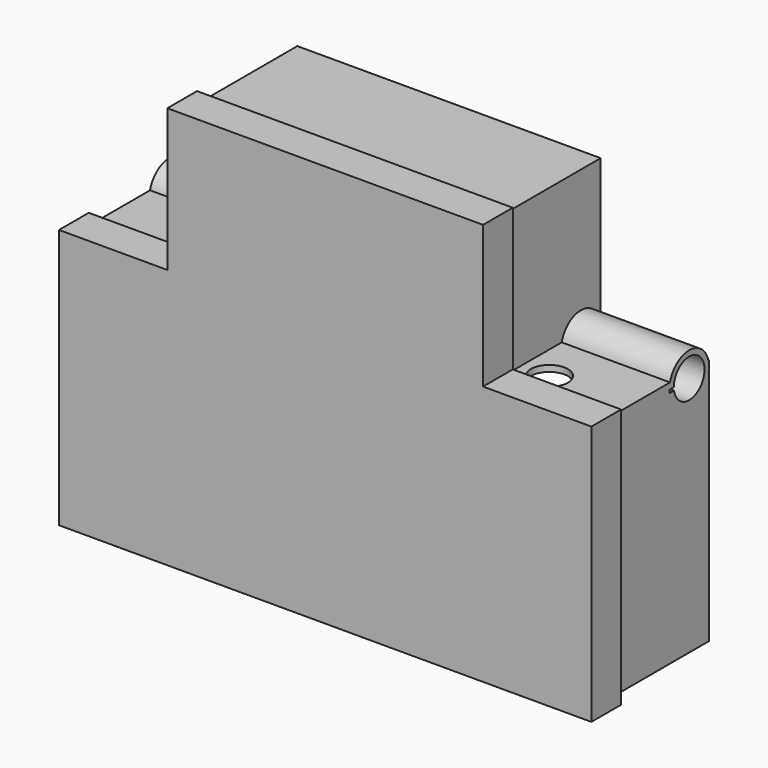
from build123d import *

# Parameters (mm, degrees)
CYLINDER004_R           = 1.25
CYLINDER004_DEPTH       = 50
CYLINDER004_PITCH_ANGLE = 90
CYLINDER009_R           = 1.25
CYLINDER009_DEPTH       = 86
CYLINDER009_PITCH_ANGLE = 90
CYLINDER010_R           = 3
CYLINDER010_DEPTH       = 10
CYLINDER005_R           = 3
CYLINDER005_DEPTH       = 10
BOX002_W                = 84
BOX002_H                = 3
BOX002_DEPTH            = 0.5
CYLINDER002_R           = 3.1
CYLINDER002_DEPTH       = 84
CYLINDER002_PITCH_ANGLE = 90
CYLINDER007_R           = 17
CYLINDER007_DEPTH       = 6
BOX005_W                = 71
BOX005_H                = 24
BOX005_DEPTH            = 28
BOX004_W                = 82
BOX004_H                = 24
BOX004_DEPTH            = 38
BOX003_W                = 84
BOX003_H                = 24
BOX003_DEPTH            = 40
CYLINDER003_R           = 4
CYLINDER003_DEPTH       = 84
CYLINDER003_PITCH_ANGLE = 90
CYLINDER008_R           = 2
CYLINDER008_DEPTH       = 8
CYLINDER008_ROLL_ANGLE  = 90
CYLINDER006_R           = 2
CYLINDER006_DEPTH       = 8
CYLINDER006_ROLL_ANGLE  = 90
CYLINDER001_R           = 8.5
CYLINDER001_DEPTH       = 20
CYLINDER001_ROLL_ANGLE  = 90
CYLINDER_R              = 8.5
CYLINDER_DEPTH          = 20
CYLINDER_ROLL_ANGLE     = 90
BOX001_W                = 47
BOX001_H                = 22
BOX001_DEPTH            = 23
BOX_W                   = 49
BOX_H                   = 24
BOX_DEPTH               = 24
BOX009_W                = 49.5
BOX009_H                = 24
BOX009_DEPTH            = 24.5
BOX008_W                = 84.5
BOX008_H                = 24
BOX008_DEPTH            = 40.5
BOX007_W                = 51
BOX007_H                = 6
BOX007_DEPTH            = 26
BOX006_W                = 86
BOX006_H                = 6
BOX006_DEPTH            = 42


with BuildPart() as obj1:
    # Cylinder004 → Cylinder004 (new body)
    with BuildSketch(Plane.XY):
        Circle(CYLINDER004_R)
    extrude(amount=CYLINDER004_DEPTH)


with BuildPart() as obj1_1:
    # Cylinder004 pitch: moved
    add(obj1.part.rotate(Axis((0, 0, 0), (0, 1, 0)), CYLINDER004_PITCH_ANGLE))


with BuildPart() as obj1_2:
    # Cylinder004 placement: moved
    add(obj1_1.part.moved(Location((-25, -12, 0))))


with BuildPart() as obj2:
    # Cylinder009 → Cylinder009 (new body)
    with BuildSketch(Plane.XY):
        Circle(CYLINDER009_R)
    extrude(amount=CYLINDER009_DEPTH)


with BuildPart() as obj2_1:
    # Cylinder009 pitch: moved
    add(obj2.part.rotate(Axis((0, 0, 0), (0, 1, 0)), CYLINDER009_PITCH_ANGLE))


with BuildPart() as obj2_2:
    # Cylinder009 placement: moved
    add(obj2_1.part.moved(Location((-43, -12, -31))))


with BuildPart() as obj3:
    # Cylinder010 → Cylinder010 (new body)
    with BuildSketch(Plane(origin=(-29, -7, -17), x_dir=(1, 0, 0), z_dir=(0, 0, 1))):
        Circle(CYLINDER010_R)
    extrude(amount=CYLINDER010_DEPTH)


with BuildPart() as fusion002:
    # Cylinder005 → Cylinder005 (new body)
    with BuildSketch(Plane(origin=(29, -7, -17), x_dir=(1, 0, 0), z_dir=(0, 0, 1))):
        Circle(CYLINDER005_R)
    extrude(amount=CYLINDER005_DEPTH)

    # Fusion002: union obj1, obj2, obj3
    add(obj1_2.part)
    add(obj2_2.part)
    add(obj3.part)


with BuildPart() as obj4:
    # Box002 → Box002 (new body)
    with BuildSketch(Plane(origin=(-42, 1, -12.5), x_dir=(1, 0, 0), z_dir=(0, 0, 1))):
        with Locations((42, 1.5)):
            Rectangle(BOX002_W, BOX002_H)
    extrude(amount=BOX002_DEPTH)


with BuildPart() as obj5:
    # Cylinder002 → Cylinder002 (new body)
    with BuildSketch(Plane.XY):
        Circle(CYLINDER002_R)
    extrude(amount=CYLINDER002_DEPTH)


with BuildPart() as obj5_1:
    # Cylinder002 pitch: moved
    add(obj5.part.rotate(Axis((0, 0, 0), (0, 1, 0)), CYLINDER002_PITCH_ANGLE))


with BuildPart() as obj5_2:
    # Cylinder002 placement: moved
    add(obj5_1.part.moved(Location((-42, 5, -12))))


with BuildPart() as obj6:
    # Cylinder007 → Cylinder007 (new body)
    with BuildSketch(Plane(origin=(0, -19, -16), x_dir=(1, 0, 0), z_dir=(0, 0, 1))):
        Circle(CYLINDER007_R)
    extrude(amount=CYLINDER007_DEPTH)


with BuildPart() as obj7:
    # Box005 → Box005 (new body)
    with BuildSketch(Plane(origin=(-35.5, -14, -45.5), x_dir=(1, 0, 0), z_dir=(0, 0, 1))):
        with Locations((35.5, 12)):
            Rectangle(BOX005_W, BOX005_H)
    extrude(amount=BOX005_DEPTH)


with BuildPart() as obj8:
    # Box004 → Box004 (new body)
    with BuildSketch(Plane(origin=(-41, -17, -50), x_dir=(1, 0, 0), z_dir=(0, 0, 1))):
        with Locations((41, 12)):
            Rectangle(BOX004_W, BOX004_H)
    extrude(amount=BOX004_DEPTH)


with BuildPart() as base_lcd:
    # Box003 → Box003 (new body)
    with BuildSketch(Plane(origin=(-42, -15, -51), x_dir=(1, 0, 0), z_dir=(0, 0, 1))):
        with Locations((42, 12)):
            Rectangle(BOX003_W, BOX003_H)
    extrude(amount=BOX003_DEPTH)

    # Cut002: cut obj8
    add(obj8.part, mode=Mode.SUBTRACT)

    # Cut003: cut obj7
    add(obj7.part, mode=Mode.SUBTRACT)


with BuildPart() as eje_central:
    # Cylinder003 → Cylinder003 (new body)
    with BuildSketch(Plane.XY):
        Circle(CYLINDER003_R)
    extrude(amount=CYLINDER003_DEPTH)


with BuildPart() as eje_central_1:
    # Cylinder003 pitch: moved
    add(eje_central.part.rotate(Axis((0, 0, 0), (0, 1, 0)), CYLINDER003_PITCH_ANGLE))


with BuildPart() as eje_central_2:
    # Cylinder003 placement: moved
    add(eje_central_1.part.moved(Location((-42, 5, -12))))


with BuildPart() as cylinder008:
    # Cylinder008 → Cylinder008 (new body)
    with BuildSketch(Plane.XY):
        Circle(CYLINDER008_R)
    extrude(amount=CYLINDER008_DEPTH)


with BuildPart() as cylinder008_1:
    # Cylinder008 roll: moved
    add(cylinder008.part.rotate(Axis((0, 0, 0), (1, 0, 0)), CYLINDER008_ROLL_ANGLE))


with BuildPart() as cylinder008_2:
    # Cylinder008 placement: moved
    add(cylinder008_1.part.moved(Location((37, 8, -47))))


with BuildPart() as cylinder006:
    # Cylinder006 → Cylinder006 (new body)
    with BuildSketch(Plane.XY):
        Circle(CYLINDER006_R)
    extrude(amount=CYLINDER006_DEPTH)


with BuildPart() as cylinder006_1:
    # Cylinder006 roll: moved
    add(cylinder006.part.rotate(Axis((0, 0, 0), (1, 0, 0)), CYLINDER006_ROLL_ANGLE))


with BuildPart() as cylinder006_2:
    # Cylinder006 placement: moved
    add(cylinder006_1.part.moved(Location((-37, 8, -47))))


with BuildPart() as obj9:
    # Cylinder001 → Cylinder001 (new body)
    with BuildSketch(Plane.XY):
        Circle(CYLINDER001_R)
    extrude(amount=CYLINDER001_DEPTH)


with BuildPart() as obj9_1:
    # Cylinder001 roll: moved
    add(obj9.part.rotate(Axis((0, 0, 0), (1, 0, 0)), CYLINDER001_ROLL_ANGLE))


with BuildPart() as obj9_2:
    # Cylinder001 placement: moved
    add(obj9_1.part.moved(Location((13, 10, 0))))


with BuildPart() as obj10:
    # Cylinder → Cylinder (new body)
    with BuildSketch(Plane.XY):
        Circle(CYLINDER_R)
    extrude(amount=CYLINDER_DEPTH)


with BuildPart() as obj10_1:
    # Cylinder roll: moved
    add(obj10.part.rotate(Axis((0, 0, 0), (1, 0, 0)), CYLINDER_ROLL_ANGLE))


with BuildPart() as obj10_2:
    # Cylinder placement: moved
    add(obj10_1.part.moved(Location((-13, 10, 0))))

    # Fusion: union obj9
    add(obj9_2.part)


with BuildPart() as obj10_3:
    # Fusion placement: moved
    add(obj10_2.part.moved(Location((0, 0, 1))))


with BuildPart() as obj11:
    # Box001 → Box001 (new body)
    with BuildSketch(Plane(origin=(-23.5, -16, -12), x_dir=(1, 0, 0), z_dir=(0, 0, 1))):
        with Locations((23.5, 11)):
            Rectangle(BOX001_W, BOX001_H)
    extrude(amount=BOX001_DEPTH)


with BuildPart() as lcd_arduino_holder:
    # Box → Box (new body)
    with BuildSketch(Plane(origin=(-24.5, -15, -12), x_dir=(1, 0, 0), z_dir=(0, 0, 1))):
        with Locations((24.5, 12)):
            Rectangle(BOX_W, BOX_H)
    extrude(amount=BOX_DEPTH)

    # Cut: cut obj11
    add(obj11.part, mode=Mode.SUBTRACT)

    # Cut001: cut obj10
    add(obj10_3.part, mode=Mode.SUBTRACT)

    # Fusion001: union base lcd, eje_central, Cylinder008, Cylinder006
    add(base_lcd.part)
    add(eje_central_2.part)
    add(cylinder008_2.part)
    add(cylinder006_2.part)

    # Cut004: cut obj6
    add(obj6.part, mode=Mode.SUBTRACT)

    # Cut005: cut obj5
    add(obj5_2.part, mode=Mode.SUBTRACT)

    # Cut006: cut obj4
    add(obj4.part, mode=Mode.SUBTRACT)

    # Cut007: cut Fusion002
    add(fusion002.part, mode=Mode.SUBTRACT)


with BuildPart() as base_bot002:
    # Box009 → Box009 (new body)
    with BuildSketch(Plane(origin=(-24.75, -15, -12.25), x_dir=(1, 0, 0), z_dir=(0, 0, 1))):
        with Locations((24.75, 12)):
            Rectangle(BOX009_W, BOX009_H)
    extrude(amount=BOX009_DEPTH)


with BuildPart() as fusion004:
    # Box008 → Box008 (new body)
    with BuildSketch(Plane(origin=(-42.25, -15, -51.25), x_dir=(1, 0, 0), z_dir=(0, 0, 1))):
        with Locations((42.25, 12)):
            Rectangle(BOX008_W, BOX008_H)
    extrude(amount=BOX008_DEPTH)

    # Fusion004: union base_bot002
    add(base_bot002.part)


with BuildPart() as base_bot001:
    # Box007 → Box007 (new body)
    with BuildSketch(Plane(origin=(-25.5, -16, -13), x_dir=(1, 0, 0), z_dir=(0, 0, 1))):
        with Locations((25.5, 3)):
            Rectangle(BOX007_W, BOX007_H)
    extrude(amount=BOX007_DEPTH)


with BuildPart() as cover:
    # Box006 → Box006 (new body)
    with BuildSketch(Plane(origin=(-43, -16, -52), x_dir=(1, 0, 0), z_dir=(0, 0, 1))):
        with Locations((43, 3)):
            Rectangle(BOX006_W, BOX006_H)
    extrude(amount=BOX006_DEPTH)

    # Fusion003: union base_bot001
    add(base_bot001.part)

    # Cut008: cut Fusion004
    add(fusion004.part, mode=Mode.SUBTRACT)


solid = Compound([lcd_arduino_holder.part, cover.part])
